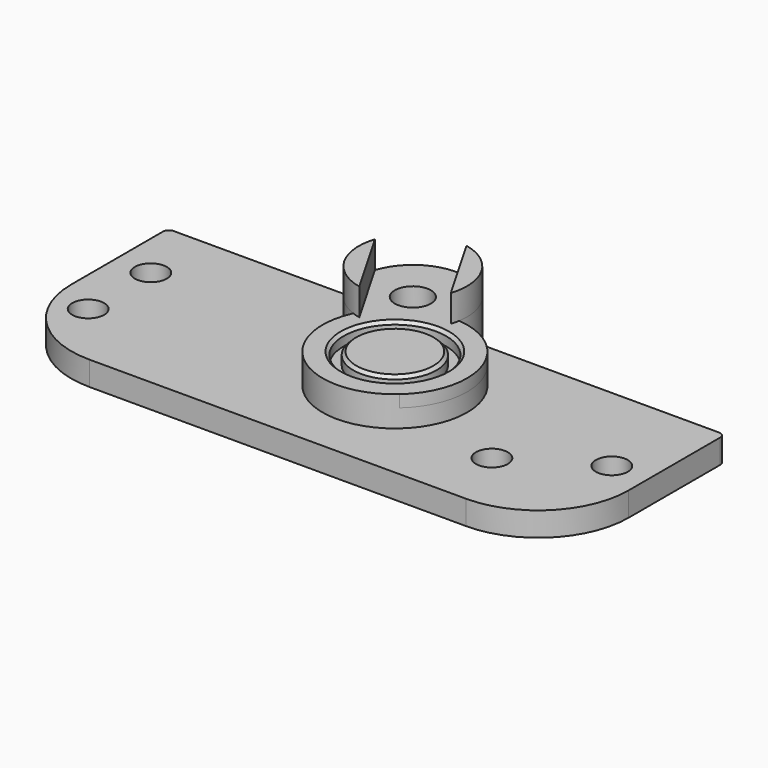
from build123d import *

# Parameters (mm, degrees)
SKETCH_R        = 12
SKETCH_R_2      = 8.5
PAD_DEPTH       = 2
SKETCH001_R     = 8.5
SKETCH001_R_2   = 3
PAD001_DEPTH    = 5
SKETCH002_R     = 8.5
PAD002_DEPTH    = 3
SKETCH003_R     = 6.9
PAD003_DEPTH    = 2
PAD004_DEPTH    = 4.5
SKETCH005_R     = 2.65
PAD005_DEPTH    = 4
SKETCH006_R     = 3
POCKET_DEPTH    = 5
FILLET_R        = 15
FILLET001_R     = 1
CHAMFER_SIZE    = 0.5
CHAMFER001_SIZE = 0.5


with BuildPart() as part:
    # Sketch → Pad (new body)
    with BuildSketch(Plane.XY):
        Circle(SKETCH_R)
        Circle(SKETCH_R_2, mode=Mode.SUBTRACT)
    extrude(amount=PAD_DEPTH)

    # Sketch001 (on Face4 of Pad) → Pad001 (join)
    with BuildSketch(Plane.XY.offset(2)):
        with BuildLine():
            ThreePointArc((1.128054, 11.946861), (-12.25, 21.217622), (-10.910313, 4.996507))
            ThreePointArc((-10.910313, 4.996507), (6, -10.392305), (1.128054, 11.946861))
        make_face()
        Circle(SKETCH001_R, mode=Mode.SUBTRACT)
        with Locations((-7.75, 13.423394)):
            Circle(SKETCH001_R_2, mode=Mode.SUBTRACT)
    extrude(amount=-PAD001_DEPTH)

    # Sketch002 (on Face6 of Pad001) → Pad002 (join)
    with BuildSketch(Plane(origin=(0, 0, -3), x_dir=(1, 0, 0), z_dir=(0, 0, -1))):
        Circle(SKETCH002_R)
    extrude(amount=-PAD002_DEPTH)

    # Sketch003 (on Face11 of Pad002) → Pad003 (join)
    with BuildSketch(Plane.XY):
        Circle(SKETCH003_R)
    extrude(amount=PAD003_DEPTH)

    # Sketch004 (on Face7 of Pad003) → Pad004 (join)
    with BuildSketch(Plane.XY.offset(2)):
        with BuildLine():
            Line((-16.300254, 16.232869), (-9.59205, 4.613919))
            ThreePointArc((-16.300254, 16.232869), (-15.544229, 8.923394), (-9.59205, 4.613919))
        make_face()
        with BuildLine():
            Line((0.800254, 10.613919), (-5.90795, 22.232869))
            ThreePointArc((0.800254, 10.613919), (0.044229, 17.923394), (-5.90795, 22.232869))
        make_face()
    extrude(amount=PAD004_DEPTH)

    # Sketch005 (on Face19 of Pad004) → Pad005 (join)
    with BuildSketch(Plane.XY.offset(-3)):
        with BuildLine():
            ThreePointArc((0.873288, 16), (-7.75, 22.423394), (-16.373288, 16))
            Line((-16.373288, 16), (-50.5, 16))
            Line((-50.5, 16), (-50.5, -19))
            Line((-50.5, -19), (42, -19))
            Line((42, -19), (42, 16))
            Line((42, 16), (0.873288, 16))
        make_face()
        with Locations((-44.5, -8)):
            Circle(SKETCH005_R, mode=Mode.SUBTRACT)
        with Locations((-44.5, 5)):
            Circle(SKETCH005_R, mode=Mode.SUBTRACT)
        with Locations((22.5, -8)):
            Circle(SKETCH005_R, mode=Mode.SUBTRACT)
        with Locations((36, 0)):
            Circle(SKETCH005_R, mode=Mode.SUBTRACT)
    extrude(amount=-PAD005_DEPTH)

    # Sketch006 → Pocket (cut)
    with BuildSketch(Plane.XY.offset(-3)):
        with Locations((-7.75, 13.423394)):
            Circle(SKETCH006_R)
    extrude(amount=-POCKET_DEPTH, mode=Mode.SUBTRACT)

    # Fillet
    fillet_edges = [part.edges().sort_by_distance(p)[0] for p in [
        (-50.5, -19, -5),
        (42, -19, -5),
    ]]
    fillet(fillet_edges, radius=FILLET_R)

    # Fillet001
    fillet001_edges = [part.edges().sort_by_distance(p)[0] for p in [
        (-50.5, 16, -5),
        (42, 16, -5),
    ]]
    fillet(fillet001_edges, radius=FILLET001_R)

    # Chamfer
    chamfer_edges = [part.edges().sort_by_distance(p)[0] for p in [
        (-8.5, 0, 2),
    ]]
    chamfer(chamfer_edges, length=CHAMFER_SIZE)

    # Chamfer001
    chamfer001_edges = [part.edges().sort_by_distance(p)[0] for p in [
        (-6.9, 0, 2),
    ]]
    chamfer(chamfer001_edges, length=CHAMFER001_SIZE)


solid = part.part
